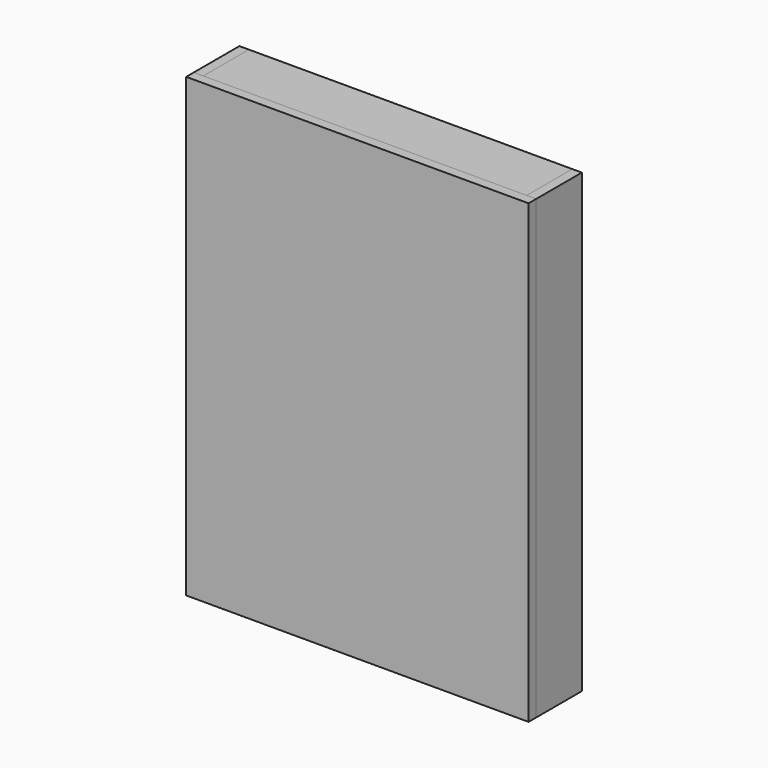
from build123d import *

# Parameters (mm, degrees)
F0_W     = 457.2
F0_H     = 609.6
F1_DEPTH = 12.7
F2_W     = 12.7
F2_H     = 609.6
F3_DEPTH = 76.2
F4_W     = 431.8
F4_H     = 6.35
F5_DEPTH = 76.2


with BuildPart() as f1:
    # F0 (on Front) → F1 (new body)
    with BuildSketch(Plane.XZ):
        with Locations((228.6, 304.8)):
            Rectangle(F0_W, F0_H)
    extrude(amount=F1_DEPTH)


with BuildPart() as f3:
    # F2 (on face) → F3 (new body)
    with BuildSketch(Plane(origin=(0, 0, 0), x_dir=(-1, 0, 0), z_dir=(0, 1, 0))):
        with Locations((-6.35, 304.8)):
            Rectangle(F2_W, F2_H)
        with Locations((-450.85, 304.8)):
            Rectangle(F2_W, F2_H)
    extrude(amount=F3_DEPTH)


with BuildPart() as f5:
    # F4 (on face) → F5 (new body)
    with BuildSketch(Plane(origin=(0, 0, 0), x_dir=(-1, 0, 0), z_dir=(0, 1, 0))):
        with Locations((-228.6, 3.175)):
            Rectangle(F4_W, F4_H)
        with Locations((-228.6, 606.425)):
            Rectangle(F4_W, F4_H)
        with Locations((-228.6, 155.575)):
            Rectangle(F4_W, F4_H)
        with Locations((-228.6, 307.975)):
            Rectangle(F4_W, F4_H)
    extrude(amount=F5_DEPTH)


solid = Compound([f1.part, f3.part, f5.part])
